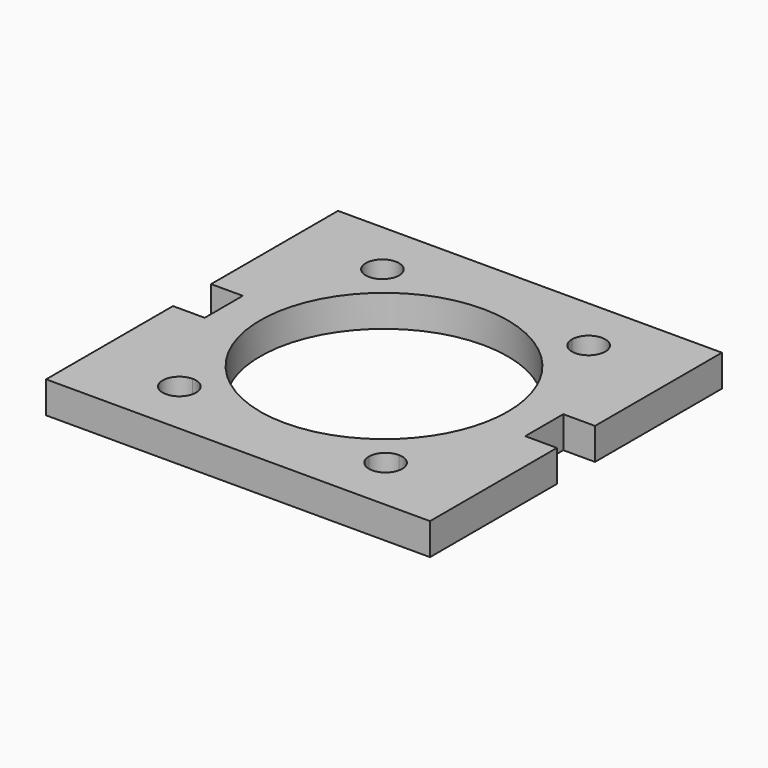
from build123d import *

# Parameters (mm, degrees)
F1_DEPTH = 10


with BuildPart() as f1:
    # F0 (on Top) → F1 (new body)
    with BuildSketch(Plane.XY):
        Polygon((56.0631853342, 37.8878792375), (-64.9368146658, 37.8878792375), (-64.9368146658, -12.1121207625), (-54.9368146658, -12.1121207625), (-54.9368146658, -27.1121207625), (-64.9368146658, -27.1121207625), (-64.9368146658, -77.1121207625), (56.0631853342, -77.1121207625), (56.0631853342, -27.1121207625), (46.0631853342, -27.1121207625), (46.0631853342, -12.1121207625), (56.0631853342, -12.1121207625), align=None)
        with BuildLine():
            ThreePointArc((28.0631853342, 1.9459403748), (32.9028425367, -8.3537905133), (34.5631853342, -19.6121207625))
            ThreePointArc((34.5631853342, -19.6121207625), (32.9028425367, -30.8704510117), (28.0631853342, -41.1701818998))
            Line((28.0631853342, -41.1701818998), (28.0631853342, -54.3621207625))
            ThreePointArc((28.0631853342, -54.3621207625), (31.7754959354, -55.8998101612), (33.3131853342, -59.6121207625))
            ThreePointArc((33.3131853342, -59.6121207625), (28.0631853342, -64.8621207625), (22.8131853342, -59.6121207625))
            Line((22.8131853342, -59.6121207625), (-31.6868146658, -59.6121207625))
            ThreePointArc((-31.6868146658, -59.6121207625), (-40.649125267, -63.3244313637), (-36.9368146658, -54.3621207625))
            Line((-36.9368146658, -54.3621207625), (-36.9368146658, -41.1701818998))
            ThreePointArc((-36.9368146658, -41.1701818998), (-43.4368146658, -19.6121207625), (-36.9368146658, 1.9459403748))
            Line((-36.9368146658, 1.9459403748), (-36.9368146658, 15.1378792375))
            ThreePointArc((-36.9368146658, 15.1378792375), (-40.649125267, 24.1001898388), (-31.6868146658, 20.3878792375))
            Line((-31.6868146658, 20.3878792375), (22.8131853342, 20.3878792375))
            ThreePointArc((22.8131853342, 20.3878792375), (28.0631853342, 25.6378792375), (33.3131853342, 20.3878792375))
            ThreePointArc((33.3131853342, 20.3878792375), (31.7754959354, 16.6755686363), (28.0631853342, 15.1378792375))
            Line((28.0631853342, 15.1378792375), (28.0631853342, 1.9459403748))
        make_face(mode=Mode.SUBTRACT)
        with BuildLine():
            ThreePointArc((-36.9368146658, 1.9459403748), (-4.4368146658, 19.3878792375), (28.0631853342, 1.9459403748))
            Line((28.0631853342, 1.9459403748), (28.0631853342, 15.1378792375))
            ThreePointArc((28.0631853342, 15.1378792375), (24.350874733, 16.6755686363), (22.8131853342, 20.3878792375))
            Line((22.8131853342, 20.3878792375), (-31.6868146658, 20.3878792375))
            ThreePointArc((-31.6868146658, 20.3878792375), (-33.2245040646, 16.6755686363), (-36.9368146658, 15.1378792375))
            Line((-36.9368146658, 15.1378792375), (-36.9368146658, 1.9459403748))
        make_face()
        with BuildLine():
            Line((28.0631853342, -54.3621207625), (28.0631853342, -41.1701818998))
            ThreePointArc((28.0631853342, -41.1701818998), (-4.4368146658, -58.6121207625), (-36.9368146658, -41.1701818998))
            Line((-36.9368146658, -41.1701818998), (-36.9368146658, -54.3621207625))
            ThreePointArc((-36.9368146658, -54.3621207625), (-33.2245040646, -55.8998101612), (-31.6868146658, -59.6121207625))
            Line((-31.6868146658, -59.6121207625), (22.8131853342, -59.6121207625))
            ThreePointArc((22.8131853342, -59.6121207625), (24.350874733, -55.8998101612), (28.0631853342, -54.3621207625))
        make_face()
    extrude(amount=F1_DEPTH)


solid = f1.part
